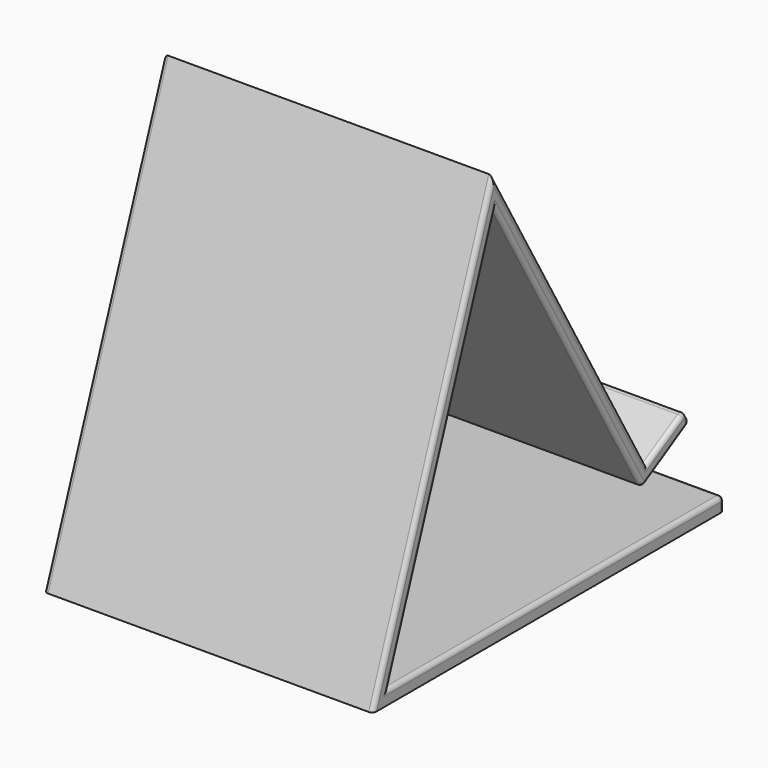
from build123d import *

# Parameters (mm, degrees)
PAD_DEPTH = 76.2
FILLET_R  = 0.999998


with BuildPart() as part:
    # Sketch → Pad (new body)
    with BuildSketch(Plane.YZ):
        Polygon((0, 0), (101.6, 0), (101.6, 3.175), (4.53437, 3.175), (35.404021, 87.988668), (78.037116, 14.145981), (91.785269, 22.083481), (90.197769, 24.833112), (79.199247, 18.483112), (34.749247, 95.47277), align=None)
    extrude(amount=PAD_DEPTH)

    # Fillet
    fillet_edges = [part.edges().sort_by_distance(p)[0] for p in [
        (0, 53.067185, 3.175),
        (38.1, 101.6, 3.175),
        (76.2, 101.6, 1.5875),
        (0, 101.6, 1.5875),
        (0, 19.969195, 45.581834),
        (76.2, 19.969195, 45.581834),
        (0, 17.374623, 47.736385),
        (0, 56.720568, 51.067325),
        (0, 56.974247, 56.977941),
        (0, 84.698508, 21.658112),
        (0, 84.911193, 18.114731),
        (0, 90.991519, 23.458297),
        (38.1, 90.197769, 24.833112),
        (38.1, 91.785269, 22.083481),
        (76.2, 90.991519, 23.458297),
        (76.2, 53.067185, 3.175),
        (76.2, 17.374623, 47.736385),
        (76.2, 56.720568, 51.067325),
        (76.2, 56.974247, 56.977941),
        (76.2, 84.698508, 21.658112),
        (76.2, 84.911193, 18.114731),
        (38.1, 78.037116, 14.145981),
    ]]
    fillet(fillet_edges, radius=FILLET_R)


solid = part.part
